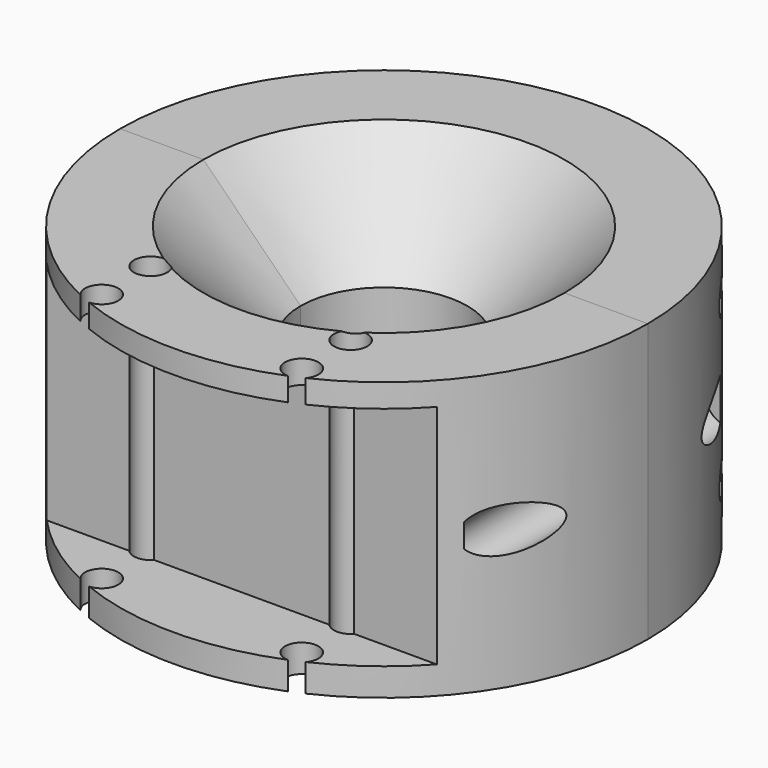
from build123d import *

# Parameters (mm, degrees)
CYLINDER002_R          = 4
CYLINDER002_DEPTH      = 55
CYLINDER002_ROLL_ANGLE = 90
CYLINDER005_R          = 4
CYLINDER005_DEPTH      = 55
CYLINDER005_ROLL_ANGLE = 90
CYLINDER003_R          = 3
CYLINDER003_DEPTH      = 100
CYLINDER004_R          = 3
CYLINDER004_DEPTH      = 100
BOX001_W               = 73
BOX001_H               = 40
BOX001_DEPTH           = 46
REVOLUTION_ANGLE       = -180
CLONE_PLACEMENT_ANGLE  = 180
CYLINDER001_R          = 3
CYLINDER001_DEPTH      = 60
CYLINDER_R             = 3
CYLINDER_DEPTH         = 60
BOX_W                  = 73
BOX_H                  = 40
BOX_DEPTH              = 40.8


with BuildPart() as cilindro002:
    # Cylinder002 → Cylinder002 (new body)
    with BuildSketch(Plane.XY):
        Circle(CYLINDER002_R)
    extrude(amount=CYLINDER002_DEPTH)


with BuildPart() as cilindro002_1:
    # Cylinder002 roll: moved
    add(cilindro002.part.rotate(Axis((0, 0, 0), (1, 0, 0)), CYLINDER002_ROLL_ANGLE))


with BuildPart() as cilindro002_2:
    # Cylinder002 placement: moved
    add(cilindro002_1.part.moved(Location((41, 26, 25))))


with BuildPart() as fusion004:
    # Cylinder005 → Cylinder005 (new body)
    with BuildSketch(Plane.XY):
        Circle(CYLINDER005_R)
    extrude(amount=CYLINDER005_DEPTH)


with BuildPart() as fusion004_1:
    # Cylinder005 roll: moved
    add(fusion004.part.rotate(Axis((0, 0, 0), (1, 0, 0)), CYLINDER005_ROLL_ANGLE))


with BuildPart() as fusion004_2:
    # Cylinder005 placement: moved
    add(fusion004_1.part.moved(Location((-42, 26, 25))))

    # Fusion004: union Cilindro002
    add(cilindro002_2.part)


with BuildPart() as cilindro003:
    # Cylinder003 → Cylinder003 (new body)
    with BuildSketch(Plane(origin=(47, 28, 40), x_dir=(0, -1, 0), z_dir=(-1, 0, 0))):
        Circle(CYLINDER003_R)
    extrude(amount=CYLINDER003_DEPTH)


with BuildPart() as fusion003:
    # Cylinder004 → Cylinder004 (new body)
    with BuildSketch(Plane(origin=(47, 28, 11), x_dir=(0, -1, 0), z_dir=(-1, 0, 0))):
        Circle(CYLINDER004_R)
    extrude(amount=CYLINDER004_DEPTH)

    # Fusion003: union Cilindro003
    add(cilindro003.part)


with BuildPart() as cubo001:
    # Box001 → Box001 (new body)
    with BuildSketch(Plane(origin=(-36, 32, 2), x_dir=(1, 0, 0), z_dir=(0, 0, 1))):
        with Locations((36.5, 20)):
            Rectangle(BOX001_W, BOX001_H)
    extrude(amount=BOX001_DEPTH)


with BuildPart() as revolution:
    # Sketch → Revolution (revolve)
    with BuildSketch(Plane.XZ):
        Polygon((32.5, 50), (15, 32.5), (15, 17.5), (32.5, 0), (47.5, 0), (47.5, 50), align=None)
    revolve(axis=Axis((0, 0, 0), (0, 0, 1)), revolution_arc=REVOLUTION_ANGLE)


with BuildPart() as cut004:
    # Clone base: copy of Revolution
    add(revolution.part)


with BuildPart() as cut004_1:
    # Clone placement: moved
    add(cut004.part.rotate(Axis((0, 0, 0), (0, 0, 1)), CLONE_PLACEMENT_ANGLE))

    # Cut002: cut Cubo001
    add(cubo001.part, mode=Mode.SUBTRACT)

    # Cut003: cut Fusion003
    add(fusion003.part, mode=Mode.SUBTRACT)

    # Cut004: cut Fusion004
    add(fusion004_2.part, mode=Mode.SUBTRACT)


with BuildPart() as cilindro001:
    # Cylinder001 → Cylinder001 (new body)
    with BuildSketch(Plane(origin=(18, -28, -5), x_dir=(1, 0, 0), z_dir=(0, 0, 1))):
        Circle(CYLINDER001_R)
    extrude(amount=CYLINDER001_DEPTH)


with BuildPart() as cilindro:
    # Cylinder → Cylinder (new body)
    with BuildSketch(Plane(origin=(18, -39, -5), x_dir=(1, 0, 0), z_dir=(0, 0, 1))):
        Circle(CYLINDER_R)
    extrude(amount=CYLINDER_DEPTH)


with BuildPart() as fusion:
    # Fusion base: copy of Cilindro
    add(cilindro.part)

    # Fusion: union Cilindro001
    add(cilindro001.part)


with BuildPart() as fusion_1:
    # Fusion placement: moved
    add(fusion.part.moved(Location((-36, 0, 0))))


with BuildPart() as fusion002:
    # Fusion001 base: copy of Cilindro
    add(cilindro.part)

    # Fusion001: union Cilindro001
    add(cilindro001.part)

    # Fusion002: union Fusion
    add(fusion_1.part)


with BuildPart() as fusion002_1:
    # Fusion002 placement: moved
    add(fusion002.part.moved(Location((0, -2, 0))))


with BuildPart() as cubo:
    # Box → Box (new body)
    with BuildSketch(Plane(origin=(-36, -72, 5), x_dir=(1, 0, 0), z_dir=(0, 0, 1))):
        with Locations((36.5, 20)):
            Rectangle(BOX_W, BOX_H)
    extrude(amount=BOX_DEPTH)


with BuildPart() as cut005:
    # Cut base: copy of Revolution
    add(revolution.part)

    # Cut: cut Cubo
    add(cubo.part, mode=Mode.SUBTRACT)

    # Cut001: cut Fusion002
    add(fusion002_1.part, mode=Mode.SUBTRACT)

    # Cut005: cut Fusion004
    add(fusion004_2.part, mode=Mode.SUBTRACT)


solid = Compound([cut004_1.part, cut005.part])
